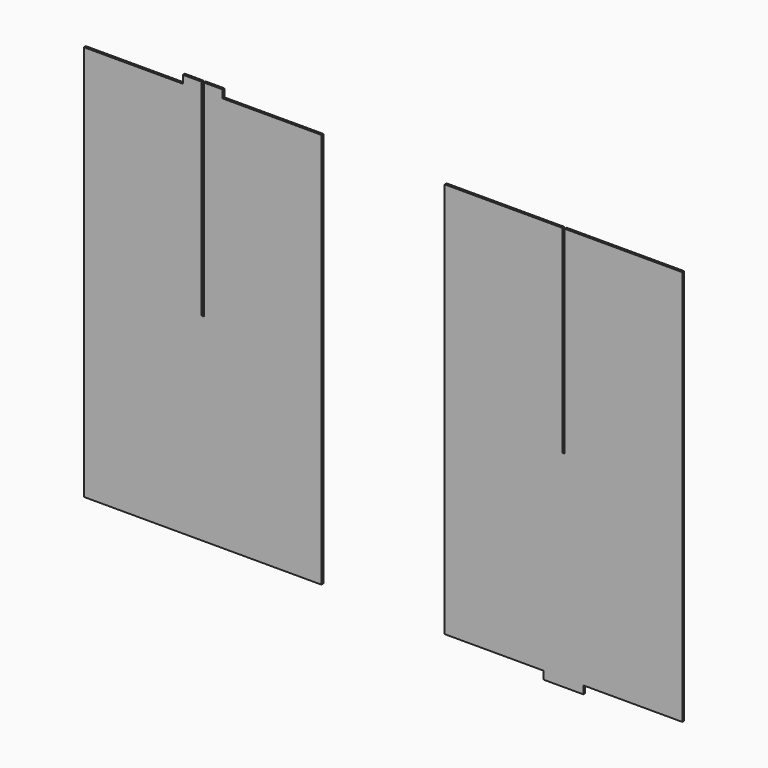
from build123d import *

# Parameters (mm, degrees)
F1_DEPTH = 3


with BuildPart() as f1:
    # F0 (on Front) → F1 (new body)
    with BuildSketch(Plane.XZ):
        Polygon((-150, 250), (-150, -250), (150, -250), (150, 250), (25, 250), (25, 260), (1.5, 260), (1.5, 250), (1.5, 0), (-1.5, 0), (-1.5, 250), (-1.5, 260), (-25, 260), (-25, 250), align=None)
        Polygon((305.754572, 245.614678), (305.754572, -254.385322), (430.754572, -254.385322), (430.754572, -264.385322), (454.254572, -264.385322), (457.254572, -264.385322), (480.754572, -264.385322), (480.754572, -254.385322), (605.754572, -254.385322), (605.754572, 245.614678), (480.754572, 245.614678), (457.254572, 245.614678), (457.254572, -4.385322), (454.254572, -4.385322), (454.254572, 245.614678), (430.754572, 245.614678), align=None)
    extrude(amount=F1_DEPTH)


solid = f1.part
